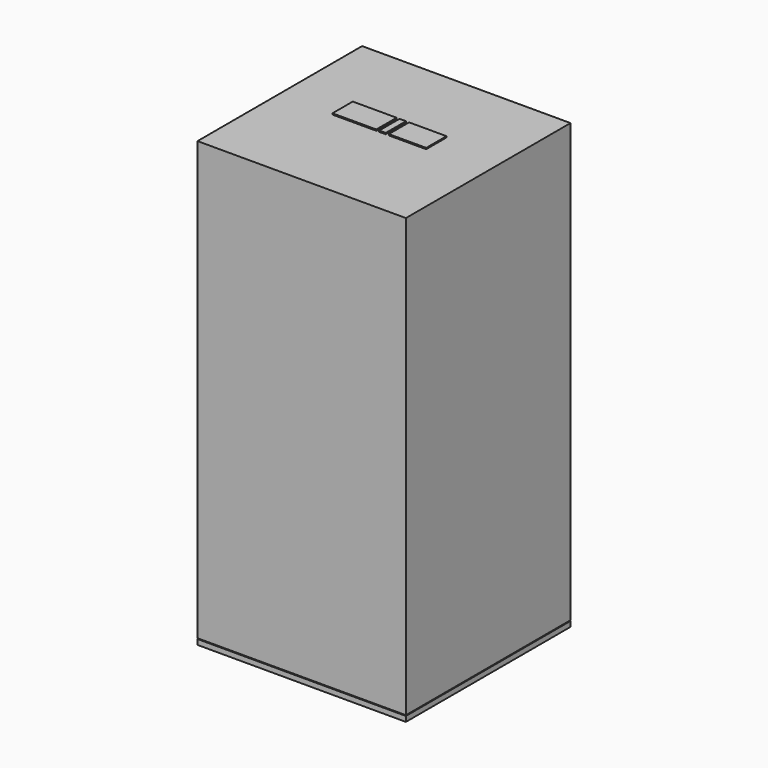
from build123d import *

# Parameters (mm, degrees)
F0_W     = 1000
F0_H     = 987.3595376536
F0_W_2   = 884.8314134924
F0_H_2   = 869.3819947267
F1_DEPTH = 2100
F2_W     = 31.1037749052
F2_H     = 121.6697422788
F2_W_2   = 179.3690174818
F2_W_3   = 210.1863827556
F3_DEPTH = 5.8
F4_W     = 3.5660341382
F4_H     = 13.4717002511
F4_W_2   = 3.9622671902
F4_W_3   = 4.1603781283
F4_W_4   = 21.396227181
F4_H_2   = 3.9622634649
F4_H_3   = 3.9622671902
F4_H_4   = 3.5660378635
F5_DEPTH = 3.5
F6_W     = 1000
F6_H     = 987.3595376536
F6_W_2   = 3.5660341382
F6_H_2   = 13.4717002511
F7_DEPTH = 25


with BuildPart() as f1:
    # F0 (on Top) → F1 (new body)
    with BuildSketch(Plane.XY):
        with Locations((-0.3962293267, -0.1981146634)):
            Rectangle(F0_W, F0_H)
        with Locations((1.0083017027, -1.602592873)):
            Rectangle(F0_W_2, F0_H_2, mode=Mode.SUBTRACT)
        with Locations((1.0083017027, -1.602592873)):
            Rectangle(F0_W_2, F0_H_2)
    extrude(amount=F1_DEPTH)

    # F2 (on face) → F3 (join)
    with BuildSketch(Plane.XY.offset(2100)):
        with Locations((0.2971710637, 50.6320395507)):
            Rectangle(F2_W, F2_H)
        with Locations((120.3920580447, 50.6320395507)):
            Rectangle(F2_W_2, F2_H)
        with Locations((-134.4139473513, 50.6320395507)):
            Rectangle(F2_W_3, F2_H)
    extrude(amount=F3_DEPTH)

    # F4 (on face) → F5 (join)
    with BuildSketch(Plane(origin=(0, 0, 0), x_dir=(1, 0, 0), z_dir=(0, 0, -1))):
        with Locations((-65.7735876739, 60.5235882103)):
            Rectangle(F4_W, F4_H)
        with Locations((-57.2547186166, 60.5235882103)):
            Rectangle(F4_W_2, F4_H)
        with Locations((-48.2405666262, 60.5235882103)):
            Rectangle(F4_W_3, F4_H)
        with Locations((-9.0169829309, 60.1358501256)):
            Rectangle(F4_W, F4_H)
        with Locations((-0.4981138736, 60.1358501256)):
            Rectangle(F4_W_2, F4_H)
        with Locations((8.5160381168, 60.1358501256)):
            Rectangle(F4_W_3, F4_H)
        with Locations((47.7396218121, 59.7481120408)):
            Rectangle(F4_W, F4_H)
        with Locations((56.2584908694, 59.7481120408)):
            Rectangle(F4_W_2, F4_H)
        with Locations((65.2726428598, 59.7481120408)):
            Rectangle(F4_W_3, F4_H)
        with Locations((-57.2547186166, -60.5235882103)):
            Rectangle(F4_W_2, F4_H)
        with Locations((-65.7735876739, -60.5235882103)):
            Rectangle(F4_W, F4_H)
        with Locations((-48.2405666262, -60.5235882103)):
            Rectangle(F4_W_3, F4_H)
        with Locations((56.2584908694, -59.7481120408)):
            Rectangle(F4_W_2, F4_H)
        with Locations((-9.0169829309, -60.1358501256)):
            Rectangle(F4_W, F4_H)
        with Locations((47.7396218121, -59.7481120408)):
            Rectangle(F4_W, F4_H)
        with Locations((8.5160381168, -60.1358501256)):
            Rectangle(F4_W_3, F4_H)
        with Locations((-0.4981138736, -60.1358501256)):
            Rectangle(F4_W_2, F4_H)
        with Locations((65.2726428598, -59.7481120408)):
            Rectangle(F4_W_3, F4_H)
        with Locations((-56.8584911525, 46.6556623578)):
            Rectangle(F4_W_4, F4_H_2)
        with Locations((-56.8584911525, 39.3254738301)):
            Rectangle(F4_W_4, F4_H_3)
        with Locations((-56.8584911525, 32.5896237046)):
            Rectangle(F4_W_4, F4_H_4)
        with Locations((-0.2018864095, 39.3188690573)):
            Rectangle(F4_W_4, F4_H_3)
        with Locations((-0.2018864095, 46.649057585)):
            Rectangle(F4_W_4, F4_H_2)
        with Locations((-0.2018864095, 32.5830189317)):
            Rectangle(F4_W_4, F4_H_4)
        with Locations((56.4547183335, 39.3122642845)):
            Rectangle(F4_W_4, F4_H_3)
        with Locations((56.4547183335, 46.6424528122)):
            Rectangle(F4_W_4, F4_H_2)
        with Locations((56.4547183335, 32.5764141589)):
            Rectangle(F4_W_4, F4_H_4)
        with Locations((56.4547183335, -46.6424528122)):
            Rectangle(F4_W_4, F4_H_2)
        with Locations((-0.2018864095, -46.649057585)):
            Rectangle(F4_W_4, F4_H_2)
        with Locations((-0.2018864095, -32.5830189317)):
            Rectangle(F4_W_4, F4_H_4)
        with Locations((-56.8584911525, -46.6556623578)):
            Rectangle(F4_W_4, F4_H_2)
        with Locations((56.4547183335, -39.3122642845)):
            Rectangle(F4_W_4, F4_H_3)
        with Locations((-0.2018864095, -39.3188690573)):
            Rectangle(F4_W_4, F4_H_3)
        with Locations((-56.8584911525, -39.3254738301)):
            Rectangle(F4_W_4, F4_H_3)
        with Locations((-56.8584911525, -32.5896237046)):
            Rectangle(F4_W_4, F4_H_4)
        with Locations((56.4547183335, -32.5764141589)):
            Rectangle(F4_W_4, F4_H_4)
    extrude(amount=F5_DEPTH)

    # F6 (on face) → F7 (join)
    with BuildSketch(Plane(origin=(0, 0, -3.5), x_dir=(1, 0, 0), z_dir=(0, 0, -1))):
        with Locations((-0.3962293267, 0.1981146634)):
            Rectangle(F6_W, F6_H)
        with Locations((-65.7735876739, 60.5235882103)):
            Rectangle(F6_W_2, F6_H_2, mode=Mode.SUBTRACT)
        with Locations((-65.7735876739, 60.5235882103)):
            Rectangle(F6_W_2, F6_H_2)
    extrude(amount=F7_DEPTH)


solid = f1.part
